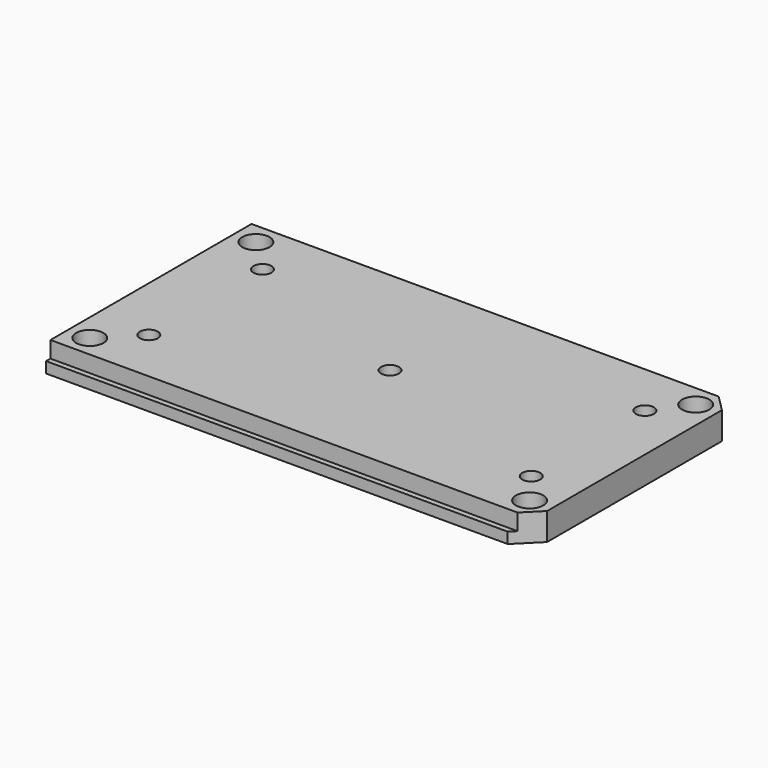
from build123d import *

# Parameters (mm, degrees)
F0_W      = 88.5
F0_H      = 46
F1_DEPTH  = 5
F2_R      = 2.5
F6_DEPTH  = 3
F3_R      = 2.5
F7_DEPTH  = 3
F4_R      = 2.5
F8_DEPTH  = 3
F5_R      = 2.5
F9_DEPTH  = 3
F12_R     = 1.65
F14_DEPTH = 3
F13_R     = 1.65
F15_DEPTH = 3
F11_R     = 1.65
F16_DEPTH = 3
F10_R     = 1.65
F17_DEPTH = 3
F18_R     = 1.65
F19_DEPTH = 4
F20_R     = 1.65
F21_R     = 1.65
F24_DEPTH = 4
F22_R     = 1.65
F23_R     = 1.65
F25_DEPTH = 4
F26_W     = 88.5
F26_H     = 2
F27_DEPTH = 1
F28_W     = 88.5
F28_H     = 2
F29_DEPTH = 1
F30_SIZE  = 3
F32_DEPTH = 3
F33_SIZE  = 3
F35_DEPTH = 3


with BuildPart() as f1:
    # F0 (on Top) → F1 (new body)
    with BuildSketch(Plane.XY):
        with Locations((44.25, 23)):
            Rectangle(F0_W, F0_H)
    extrude(amount=F1_DEPTH)

    # F2 (on face) → F6 (cut)
    with BuildSketch(Plane.XY.offset(5)):
        with Locations((4, 42)):
            Circle(F2_R)
    extrude(amount=-F6_DEPTH, mode=Mode.SUBTRACT)

    # F3 (on face) → F7 (cut)
    with BuildSketch(Plane.XY.offset(5)):
        with Locations((4, 4)):
            Circle(F3_R)
    extrude(amount=-F7_DEPTH, mode=Mode.SUBTRACT)

    # F4 (on face) → F8 (cut)
    with BuildSketch(Plane.XY.offset(5)):
        with Locations((84.5, 42)):
            Circle(F4_R)
    extrude(amount=-F8_DEPTH, mode=Mode.SUBTRACT)

    # F5 (on face) → F9 (cut)
    with BuildSketch(Plane.XY.offset(5)):
        with Locations((84.5, 4)):
            Circle(F5_R)
    extrude(amount=-F9_DEPTH, mode=Mode.SUBTRACT)

    # F12 (on face) → F14 (cut)
    with BuildSketch(Plane.XY.offset(2)):
        with Locations((84.5, 42)):
            Circle(F12_R)
    extrude(amount=-F14_DEPTH, mode=Mode.SUBTRACT)

    # F13 (on face) → F15 (cut)
    with BuildSketch(Plane.XY.offset(2)):
        with Locations((84.5, 4)):
            Circle(F13_R)
    extrude(amount=-F15_DEPTH, mode=Mode.SUBTRACT)

    # F11 (on face) → F16 (cut)
    with BuildSketch(Plane.XY.offset(2)):
        with Locations((4, 4)):
            Circle(F11_R)
    extrude(amount=-F16_DEPTH, mode=Mode.SUBTRACT)

    # F10 (on face) → F17 (cut)
    with BuildSketch(Plane.XY.offset(2)):
        with Locations((4, 42)):
            Circle(F10_R)
    extrude(amount=-F17_DEPTH, mode=Mode.SUBTRACT)

    # F18 (on face) → F19 (cut)
    with BuildSketch(Plane.XY.offset(5)):
        with Locations((43.75, 23)):
            Circle(F18_R)
    extrude(amount=-F19_DEPTH, mode=Mode.SUBTRACT)

    # F20 (on face) + F21 (on face) → F24 (cut)
    with BuildSketch(Plane.XY.offset(5)):
        with Locations((10, 36)):
            Circle(F20_R)
    with BuildSketch(Plane.XY.offset(5)):
        with Locations((10, 10)):
            Circle(F21_R)
    extrude(amount=-F24_DEPTH, mode=Mode.SUBTRACT)

    # F22 (on face) + F23 (on face) → F25 (cut)
    with BuildSketch(Plane.XY.offset(5)):
        with Locations((80, 36)):
            Circle(F22_R)
    with BuildSketch(Plane.XY.offset(5)):
        with Locations((80, 10)):
            Circle(F23_R)
    extrude(amount=-F25_DEPTH, mode=Mode.SUBTRACT)

    # F26 (on face) → F27 (join)
    with BuildSketch(Plane(origin=(0, 46, 0), x_dir=(-1, 0, 0), z_dir=(0, 1, 0))):
        with Locations((-44.25, 1)):
            Rectangle(F26_W, F26_H)
    extrude(amount=F27_DEPTH)

    # F28 (on face) → F29 (join)
    with BuildSketch(Plane.XZ):
        with Locations((44.25, 1)):
            Rectangle(F28_W, F28_H)
    extrude(amount=F29_DEPTH)

    # F30
    f30_edges = [f1.edges().sort_by_distance(p)[0] for p in [
        (88.5, 0, 3.5),
    ]]
    chamfer(f30_edges, length=F30_SIZE)

    # F31 (on face) → F32 (cut)
    with BuildSketch(Plane.XY.offset(2)):
        Polygon((88.5, 0), (88.5, 3), (85.5, 0), (84.5, -1), (88.5, -1), align=None)
    extrude(amount=-F32_DEPTH, mode=Mode.SUBTRACT)

    # F33
    f33_edges = [f1.edges().sort_by_distance(p)[0] for p in [
        (88.5, 46, 3.5),
    ]]
    chamfer(f33_edges, length=F33_SIZE)

    # F34 (on face) → F35 (cut)
    with BuildSketch(Plane.XY.offset(2)):
        Polygon((85.5, 46), (88.5, 43), (88.5, 46), (88.5, 47), (84.5, 47), align=None)
    extrude(amount=-F35_DEPTH, mode=Mode.SUBTRACT)


solid = f1.part
